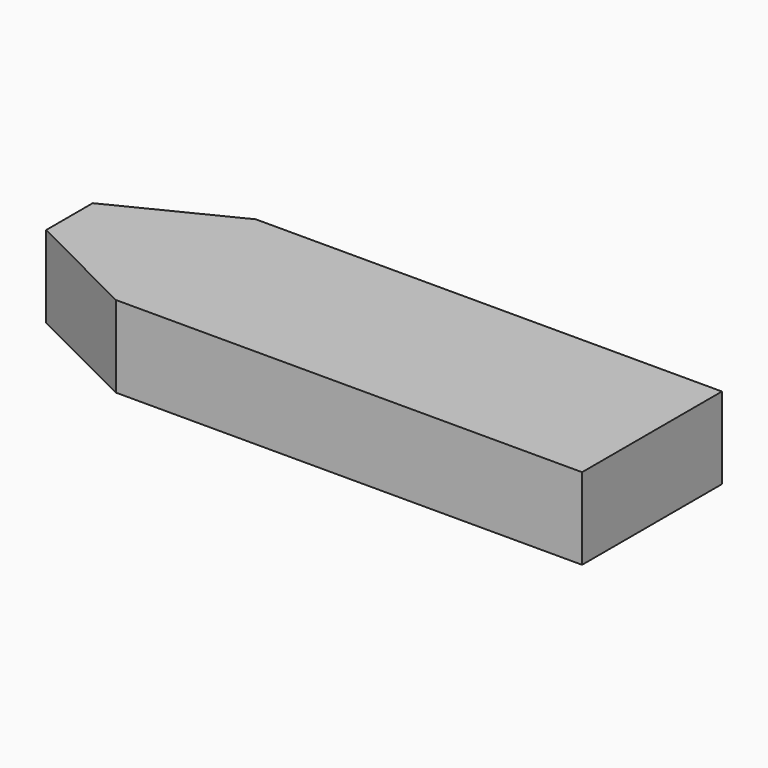
from build123d import *

# Parameters (mm, degrees)
F0_W     = 10
F0_H     = 5
F1_DEPTH = 7


with BuildPart() as f1:
    # F0 (on Top) → F1 (new body)
    with BuildSketch(Plane.XY):
        Polygon((-20, -7.5), (20, -7.5), (20, 7.5), (-20, 7.5), (-20, 2.5), (-20, -2.5), align=None)
        Polygon((-30, -2.5), (-20, -7.5), (-20, -2.5), align=None)
        with Locations((-25, 0)):
            Rectangle(F0_W, F0_H)
        Polygon((-20, 2.5), (-20, 7.5), (-30, 2.5), align=None)
    extrude(amount=F1_DEPTH)


solid = f1.part
